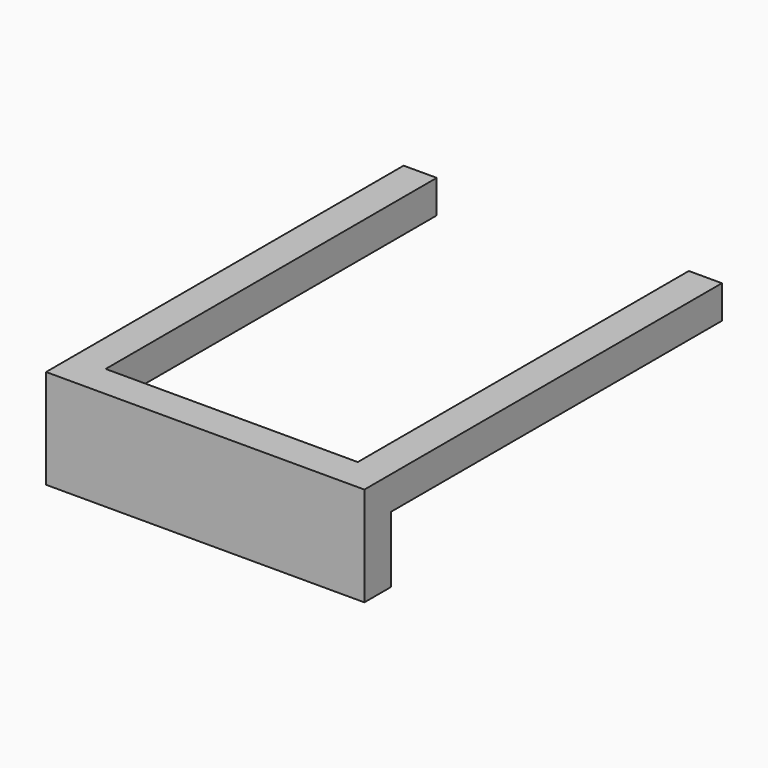
from build123d import *

# Parameters (mm, degrees)
F0_W     = 192.3
F0_H     = 60
F1_DEPTH = 20
F2_W     = 20
F2_H     = 20
F3_DEPTH = 250


with BuildPart() as f1:
    # F0 (on Front) → F1 (new body)
    with BuildSketch(Plane.XZ):
        Rectangle(F0_W, F0_H)
    extrude(amount=F1_DEPTH)

    # F2 (on face) → F3 (join)
    with BuildSketch(Plane(origin=(0, 0, 0), x_dir=(-1, 0, 0), z_dir=(0, 1, 0))):
        with Locations((-86.15, 20)):
            Rectangle(F2_W, F2_H)
        with Locations((86.15, 20)):
            Rectangle(F2_W, F2_H)
    extrude(amount=F3_DEPTH)


solid = f1.part
